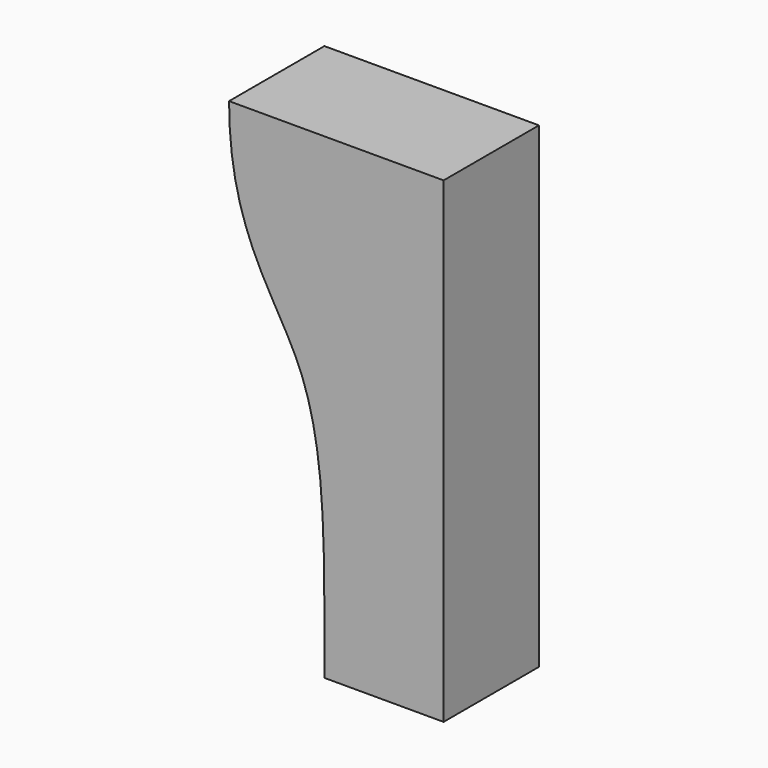
from build123d import *

# Parameters (mm, degrees)
F1_DEPTH = 5


with BuildPart() as f1:
    # F0 (on Front) → F1 (new body)
    with BuildSketch(Plane.XZ):
        with BuildLine():
            add(Edge.make_bspline(
                [(-9, 20), (-9, 15.1147833094), (-4.8448542279, 11.6856186799), (-5, 4.7296346165), (-5, 0)],
                knots=[0, 0, 0, 0, 0.4809959482, 1, 1, 1, 1], degree=3))
            Line((-5, 0), (0, 0))
            Line((0, 0), (0, 20))
            Line((0, 20), (-9, 20))
        make_face()
    extrude(amount=F1_DEPTH)


solid = f1.part
